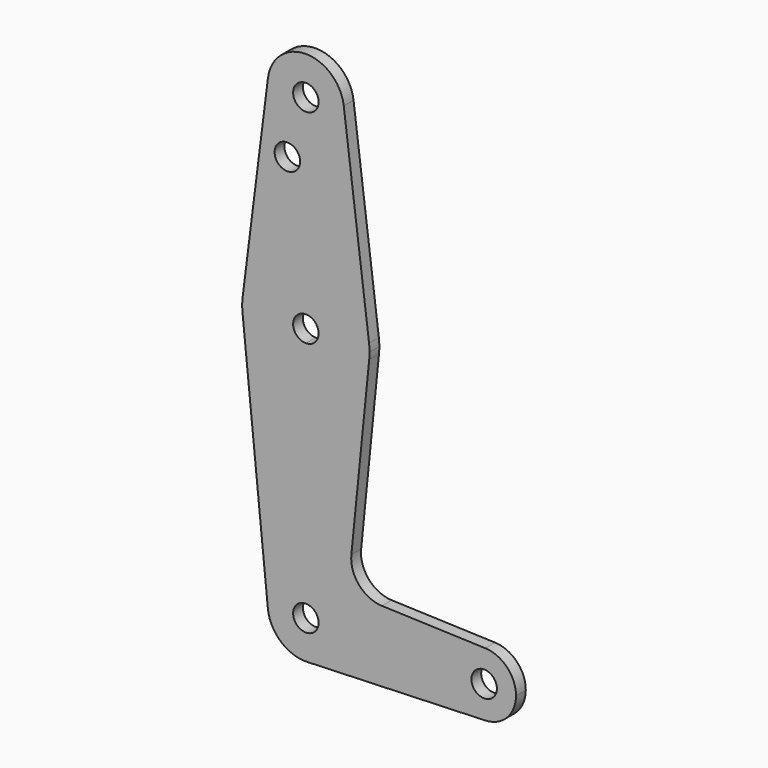
from build123d import *

# Parameters (mm, degrees)
F0_R     = 3.175
F1_DEPTH = 3.048


with BuildPart() as f1:
    # F0 (on Front) → F1 (new body)
    with BuildSketch(Plane.XZ):
        with BuildLine():
            ThreePointArc((-9.450411, 115.48969), (-0.596013, 104.793666), (9.525, 114.3))
            ThreePointArc((9.525, 114.3), (9.506305, 114.896483), (9.450293, 115.490625))
            ThreePointArc((9.450293, 115.490625), (-0.000471, 123.825), (-9.450411, 115.48969))
        make_face()
        with Locations((0, 114.3)):
            Circle(F0_R, mode=Mode.SUBTRACT)
        with BuildLine():
            ThreePointArc((9.450293, 115.490625), (9.506305, 114.896483), (9.525, 114.3))
            ThreePointArc((9.525, 114.3), (-0.596013, 104.793666), (-9.450411, 115.48969))
            Line((-9.450411, 115.48969), (-15.696051, 65.876889))
            ThreePointArc((-15.696051, 65.876889), (0.198135, 79.373763), (15.750488, 65.484375))
            Line((15.750488, 65.484375), (9.450293, 115.490625))
        make_face()
        with Locations((-4.615732, 99.732379)):
            Circle(F0_R, mode=Mode.SUBTRACT)
        with BuildLine():
            ThreePointArc((3.175, 63.5), (-2.245064, 65.745064), (0, 60.325))
            ThreePointArc((0, 60.325), (2.245064, 61.254936), (3.175, 63.5))
        make_face()
        with BuildLine():
            ThreePointArc((15.875, 63.5), (15.843841, 64.494139), (15.750488, 65.484375))
            ThreePointArc((15.750488, 65.484375), (0.198135, 79.373763), (-15.696051, 65.876889))
            Line((-15.696051, 65.876889), (-15.795426, 65.0875))
            ThreePointArc((-15.795426, 65.0875), (-15.875, 63.5), (-15.795426, 61.9125))
            ThreePointArc((-15.795426, 61.9125), (-10.649274, 51.726785), (0, 47.625))
            ThreePointArc((0, 47.625), (10.649274, 51.726785), (15.795426, 61.9125))
            ThreePointArc((15.795426, 61.9125), (15.855094, 62.705253), (15.875, 63.5))
        make_face()
        with BuildLine():
            ThreePointArc((3.175, 63.5), (2.245064, 61.254936), (0, 60.325))
            ThreePointArc((0, 60.325), (-2.245064, 65.745064), (3.175, 63.5))
        make_face(mode=Mode.SUBTRACT)
        with BuildLine():
            Line((-15.795426, 65.0875), (-15.696051, 65.876889))
            ThreePointArc((-15.696051, 65.876889), (-15.750684, 65.482817), (-15.795426, 65.0875))
        make_face()
        with BuildLine():
            Line((11.340836, 17.589892), (15.795426, 61.9125))
            ThreePointArc((15.795426, 61.9125), (10.649274, 51.726785), (0, 47.625))
            Line((0, 47.625), (0, 9.525))
            ThreePointArc((0, 9.525), (6.735192, 6.735192), (9.525, 0))
            ThreePointArc((9.525, 0), (6.854408, -6.613827), (0.340179, -9.518923))
            Line((0.340179, -9.518923), (44.733482, -7.932436))
            ThreePointArc((44.733482, -7.932436), (36.5125, -0.000539), (44.732405, 7.932475))
            Line((44.732405, 7.932475), (18.968328, 8.849706))
            ThreePointArc((18.968328, 8.849706), (13.261204, 11.567463), (11.340836, 17.589892))
        make_face()
        with BuildLine():
            ThreePointArc((0, 47.625), (-10.649274, 51.726785), (-15.795426, 61.9125))
            Line((-15.795426, 61.9125), (-9.477255, -0.9525))
            ThreePointArc((-9.477255, -0.9525), (-7.063929, 6.389564), (0, 9.525))
            Line((0, 9.525), (0, 47.625))
        make_face()
        with BuildLine():
            ThreePointArc((3.175, 0), (2.245064, 2.245064), (0, 3.175))
            ThreePointArc((0, 3.175), (-2.245064, -2.245064), (3.175, 0))
        make_face()
        with BuildLine():
            ThreePointArc((0, 9.525), (-7.063929, 6.389564), (-9.477255, -0.9525))
            ThreePointArc((-9.477255, -0.9525), (-6.262383, -7.17692), (0.340179, -9.518923))
            ThreePointArc((0.340179, -9.518923), (6.854408, -6.613827), (9.525, 0))
            ThreePointArc((9.525, 0), (6.735192, 6.735192), (0, 9.525))
        make_face()
        with BuildLine():
            ThreePointArc((3.175, 0), (-2.245064, -2.245064), (0, 3.175))
            ThreePointArc((0, 3.175), (2.245064, 2.245064), (3.175, 0))
        make_face(mode=Mode.SUBTRACT)
        with BuildLine():
            ThreePointArc((52.3875, 0), (50.161633, 5.51191), (44.732405, 7.932475))
            ThreePointArc((44.732405, 7.932475), (36.5125, -0.000539), (44.733482, -7.932436))
            ThreePointArc((44.733482, -7.932436), (50.162007, -5.511523), (52.3875, 0))
        make_face()
        with Locations((44.45, 0)):
            Circle(F0_R, mode=Mode.SUBTRACT)
    extrude(amount=F1_DEPTH)


solid = f1.part
